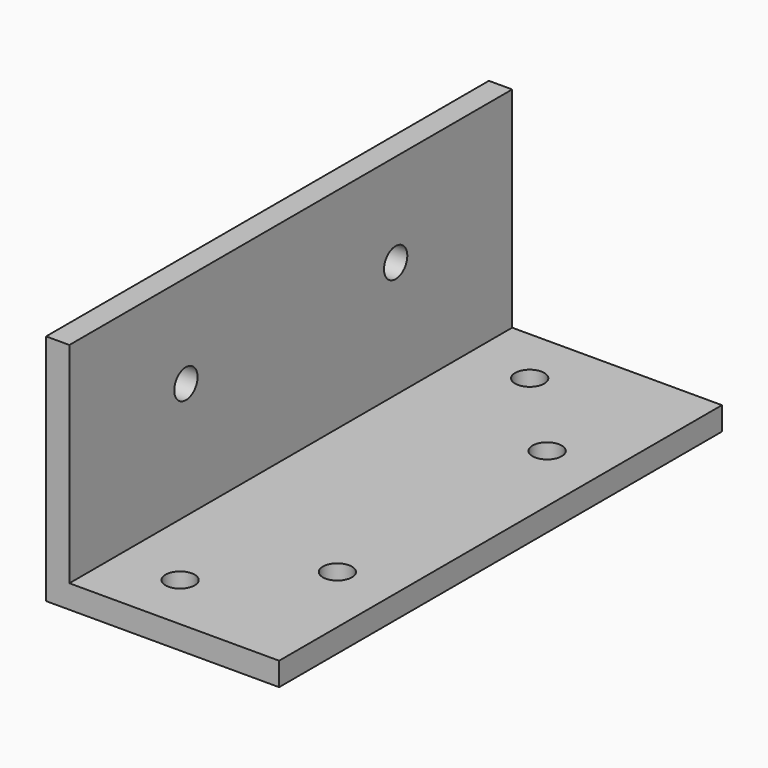
from build123d import *

# Parameters (mm, degrees)
F1_DEPTH = 241.3
F2_R     = 6.35
F3_DEPTH = 50.8
F4_R     = 6.35
F5_DEPTH = 25.4


with BuildPart() as f1:
    # F0 (on Front) → F1 (new body)
    with BuildSketch(Plane.XZ):
        Polygon((-10.16, 0), (0, 0), (91.44, 0), (91.44, 10.16), (0, 10.16), (0, 101.6), (-10.16, 101.6), (-10.16, 10.16), align=None)
    extrude(amount=F1_DEPTH)

    # F2 (on face) → F3 (cut)
    with BuildSketch(Plane.XY.offset(10.16)):
        with Locations((27.94, -25.4)):
            Circle(F2_R)
        with Locations((66.04, -63.5)):
            Circle(F2_R)
        with Locations((66.04, -177.8)):
            Circle(F2_R)
        with Locations((27.94, -215.9)):
            Circle(F2_R)
    extrude(amount=-F3_DEPTH, mode=Mode.SUBTRACT)

    # F4 (on face) → F5 (cut)
    with BuildSketch(Plane.YZ):
        with Locations((-177.8, 60.96)):
            Circle(F4_R)
        with Locations((-63.5, 60.96)):
            Circle(F4_R)
    extrude(amount=-F5_DEPTH, mode=Mode.SUBTRACT)


solid = f1.part
